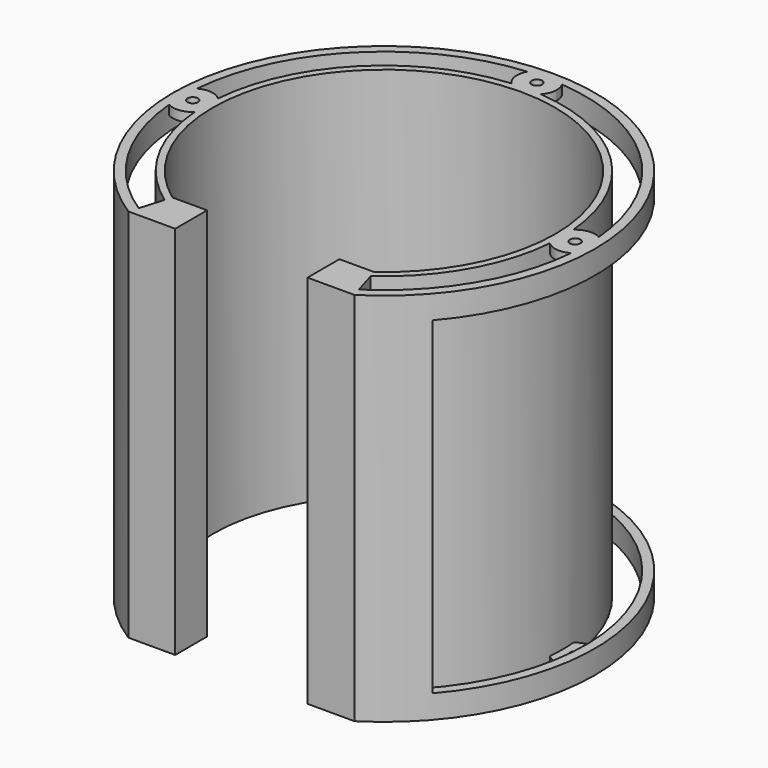
from build123d import *

# Parameters (mm, degrees)
F1_DEPTH  = 160
F3_DEPTH  = 160
F4_W      = 56.4157663456
F4_H      = 160
F5_DEPTH  = 4
F7_DEPTH  = 160
F10_DEPTH = 70
F11_R     = 2.25
F12_DEPTH = 4
F13_R     = 2.25
F14_DEPTH = 5


with BuildPart() as f1:
    # F0 (on Top) → F1 (new body)
    with BuildSketch(Plane.XY):
        with BuildLine():
            Line((-48.2078831728, -76), (48.2078831728, -76))
            ThreePointArc((48.2078831728, -76), (0, 90), (-48.2078831728, -76))
        make_face()
    extrude(amount=F1_DEPTH)

    # F2 (on face) → F3 (cut, through all)
    with BuildSketch(Plane.XY.offset(160)):
        with BuildLine():
            Line((-47.0319040652, -72), (47.0319040652, -72))
            ThreePointArc((47.0319040652, -72), (0, 86), (-47.0319040652, -72))
        make_face()
    extrude(amount=-F3_DEPTH, mode=Mode.SUBTRACT)

    # F4 (on face) → F5 (cut, through all)
    with BuildSketch(Plane.XZ.offset(76)):
        with Locations((0, 80)):
            Rectangle(F4_W, F4_H)
    extrude(amount=-F5_DEPTH, mode=Mode.SUBTRACT)

    # F6 (on Top) → F7 (join)
    with BuildSketch(Plane.XY):
        with BuildLine():
            ThreePointArc((43.9545219517, -62), (0, 76), (-43.9545219517, -62))
            Line((-43.9545219517, -62), (-28.2078831728, -62))
            Line((-28.2078831728, -62), (-28.2078831728, -59))
            Line((-28.2078831728, -59), (-42.9883705204, -59))
            ThreePointArc((-42.9883705204, -59), (0, 73), (42.9883705204, -59))
            Line((42.9883705204, -59), (28.2078831728, -59))
            Line((28.2078831728, -59), (28.2078831728, -62))
            Line((28.2078831728, -62), (43.9545219517, -62))
        make_face()
        Polygon((-28.2078831728, -62), (-43.9545219517, -62), (-46.9199158251, -72.0180869102), (-28.2078831728, -72.0180869102), align=None)
        Polygon((46.9199158251, -72.0180869102), (43.9545219517, -62), (28.2078831728, -62), (28.2078831728, -72.0180869102), align=None)
    extrude(amount=F7_DEPTH)


with BuildPart() as f1_1:
    # F8: moved
    add(f1.part.moved(Location((0, 0, -80))))

    # F9 (on Top) → F10 (cut, symmetric)
    with BuildSketch(Plane.XY):
        with BuildLine():
            Line((62.496284582, -59.0780366418), (67.8954018071, -59.0780366418))
            ThreePointArc((67.8954018071, -59.0780366418), (0.0239748666, 89.9999968067), (-67.9268674599, -59.0418552984))
            Line((-67.9268674599, -59.0418552984), (-62.5304671574, -59.0418552984))
            ThreePointArc((-62.5304671574, -59.0418552984), (0.0248874369, 85.9999963989), (62.496284582, -59.0780366418))
        make_face()
    extrude(amount=F10_DEPTH, both=True, mode=Mode.SUBTRACT)

    # F11 (on face) → F12 (join)
    with BuildSketch(Plane.XY.offset(80)):
        with BuildLine():
            ThreePointArc((-75.7423312883, 6.2529393893), (-80.5249171029, 8.4438861518), (-85.6809815951, 7.4006346283))
            ThreePointArc((-85.6809815951, 7.4006346283), (-86, 0), (-85.6809815951, -7.4006346283))
            ThreePointArc((-85.6809815951, -7.4006346283), (-80.5249171029, -8.4438861518), (-75.7423312883, -6.2529393893))
            ThreePointArc((-75.7423312883, -6.2529393893), (-76, 0), (-75.7423312883, 6.2529393893))
        make_face()
        with Locations((-81.5, 0)):
            Circle(F11_R, mode=Mode.SUBTRACT)
        with BuildLine():
            ThreePointArc((6.2529393893, 75.7423312883), (7.9183326783, 78.409691343), (8.5, 81.5))
            ThreePointArc((8.5, 81.5), (8.2205655019, 83.6615510241), (7.4006346283, 85.6809815951))
            ThreePointArc((7.4006346283, 85.6809815951), (0, 86), (-7.4006346283, 85.6809815951))
            ThreePointArc((-7.4006346283, 85.6809815951), (-8.4438861518, 80.5249171029), (-6.2529393893, 75.7423312883))
            ThreePointArc((-6.2529393893, 75.7423312883), (0, 76), (6.2529393893, 75.7423312883))
        make_face()
        with Locations((0, 81.5)):
            Circle(F11_R, mode=Mode.SUBTRACT)
        with BuildLine():
            ThreePointArc((85.6809815951, -7.4006346283), (86, 0), (85.6809815951, 7.4006346283))
            ThreePointArc((85.6809815951, 7.4006346283), (80.5249171029, 8.4438861518), (75.7423312883, 6.2529393893))
            ThreePointArc((75.7423312883, 6.2529393893), (76, 0), (75.7423312883, -6.2529393893))
            ThreePointArc((75.7423312883, -6.2529393893), (80.5249171029, -8.4438861518), (85.6809815951, -7.4006346283))
        make_face()
        with Locations((81.5, 0)):
            Circle(F11_R, mode=Mode.SUBTRACT)
        with BuildLine():
            ThreePointArc((90, 0), (88.8412649986, 4.2843702245), (85.6809815951, 7.4006346283))
            ThreePointArc((85.6809815951, 7.4006346283), (86, 0), (85.6809815951, -7.4006346283))
            ThreePointArc((85.6809815951, -7.4006346283), (88.8412649986, -4.2843702245), (90, 0))
        make_face()
        with BuildLine():
            ThreePointArc((-7.4006346283, 85.6809815951), (0, 86), (7.4006346283, 85.6809815951))
            ThreePointArc((7.4006346283, 85.6809815951), (4.2843702226, 88.8412649997), (-4.4e-09, 90))
            ThreePointArc((-4.4e-09, 90), (-4.2843702264, 88.8412649975), (-7.4006346283, 85.6809815951))
        make_face()
        with BuildLine():
            ThreePointArc((-85.6809815951, 7.4006346283), (-88.8412649971, 4.284370227), (-90, 5.8e-09))
            ThreePointArc((-90, 5.8e-09), (-88.841265, -4.284370222), (-85.6809815951, -7.4006346283))
            ThreePointArc((-85.6809815951, -7.4006346283), (-86, 0), (-85.6809815951, 7.4006346283))
        make_face()
    extrude(amount=-F12_DEPTH)

    # F13 (on face) → F14 (join)
    with BuildSketch(Plane(origin=(0, 0, -80), x_dir=(1, 0, 0), z_dir=(0, 0, -1))):
        with BuildLine():
            ThreePointArc((-75.7423312883, -6.2529393893), (-76, 0), (-75.7423312883, 6.2529393893))
            ThreePointArc((-75.7423312883, 6.2529393893), (-80.5249171029, 8.4438861518), (-85.6809815951, 7.4006346283))
            ThreePointArc((-85.6809815951, 7.4006346283), (-86, 0), (-85.6809815951, -7.4006346283))
            ThreePointArc((-85.6809815951, -7.4006346283), (-80.5249171029, -8.4438861518), (-75.7423312883, -6.2529393893))
        make_face()
        with Locations((-81.5, 0)):
            Circle(F13_R, mode=Mode.SUBTRACT)
        with BuildLine():
            ThreePointArc((-85.6809815951, -7.4006346283), (-86, 0), (-85.6809815951, 7.4006346283))
            ThreePointArc((-85.6809815951, 7.4006346283), (-88.8412649692, 4.2843702749), (-90, 1.165e-07))
            ThreePointArc((-90, 1.165e-07), (-88.8412650279, -4.2843701742), (-85.6809815951, -7.4006346283))
        make_face()
        with BuildLine():
            ThreePointArc((85.6809815951, 7.4006346283), (86, 0), (85.6809815951, -7.4006346283))
            ThreePointArc((85.6809815951, -7.4006346283), (88.8412649986, -4.2843702245), (90, 0))
            ThreePointArc((90, 0), (88.8412649986, 4.2843702245), (85.6809815951, 7.4006346283))
        make_face()
        with BuildLine():
            ThreePointArc((75.7423312883, 6.2529393893), (76, 0), (75.7423312883, -6.2529393893))
            ThreePointArc((75.7423312883, -6.2529393893), (80.5249171029, -8.4438861518), (85.6809815951, -7.4006346283))
            ThreePointArc((85.6809815951, -7.4006346283), (86, 0), (85.6809815951, 7.4006346283))
            ThreePointArc((85.6809815951, 7.4006346283), (80.5249171029, 8.4438861518), (75.7423312883, 6.2529393893))
        make_face()
        with Locations((81.5, 0)):
            Circle(F13_R, mode=Mode.SUBTRACT)
        with BuildLine():
            ThreePointArc((6.2529393893, -75.7423312883), (0, -76), (-6.2529393893, -75.7423312883))
            ThreePointArc((-6.2529393893, -75.7423312883), (-8.4438861518, -80.5249171029), (-7.4006346283, -85.6809815951))
            ThreePointArc((-7.4006346283, -85.6809815951), (0, -86), (7.4006346283, -85.6809815951))
            ThreePointArc((7.4006346283, -85.6809815951), (8.2205655019, -83.6615510241), (8.5, -81.5))
            ThreePointArc((8.5, -81.5), (7.9183326783, -78.409691343), (6.2529393893, -75.7423312883))
        make_face()
        with Locations((0, -81.5)):
            Circle(F13_R, mode=Mode.SUBTRACT)
        with BuildLine():
            ThreePointArc((7.4006346283, -85.6809815951), (0, -86), (-7.4006346283, -85.6809815951))
            ThreePointArc((-7.4006346283, -85.6809815951), (-4.2843702239, -88.8412649989), (1.4e-09, -90))
            ThreePointArc((1.4e-09, -90), (4.2843702252, -88.8412649982), (7.4006346283, -85.6809815951))
        make_face()
    extrude(amount=-F14_DEPTH)


solid = f1_1.part
